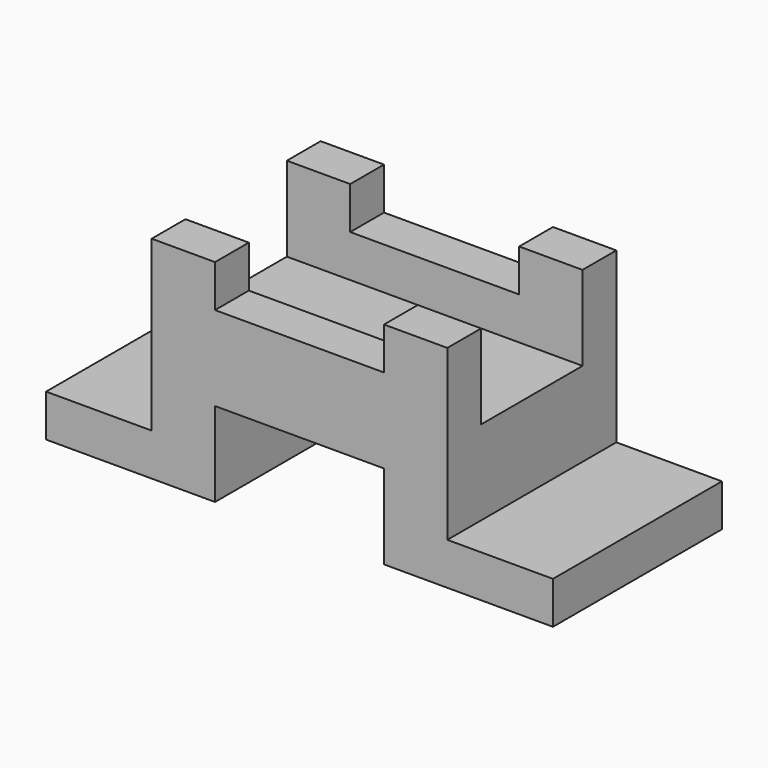
from build123d import *

# Parameters (mm, degrees)
F2_DEPTH = 50
F3_W     = 70
F3_H     = 30
F4_DEPTH = 20


with BuildPart() as f2:
    # F1 (on Front) → F2 (new body)
    with BuildSketch(Plane.XZ):
        Polygon((-60, 0), (-23.1733145698, 0), (-20, 0), (-20, 20), (0, 20), (0, 40), (-20, 40), (-20, 50), (-35, 50), (-35, 10), (-60, 10), align=None)
        Polygon((0, 40), (0, 20), (20, 20), (20, 0), (23.1733145698, 0), (60, 0), (60, 10), (35, 10), (35, 50), (20, 50), (20, 40), align=None)
    extrude(amount=F2_DEPTH)

    # F3 (on face) → F4 (cut)
    with BuildSketch(Plane.XY.offset(50)):
        with Locations((0, -25)):
            Rectangle(F3_W, F3_H)
    extrude(amount=-F4_DEPTH, mode=Mode.SUBTRACT)


solid = f2.part
